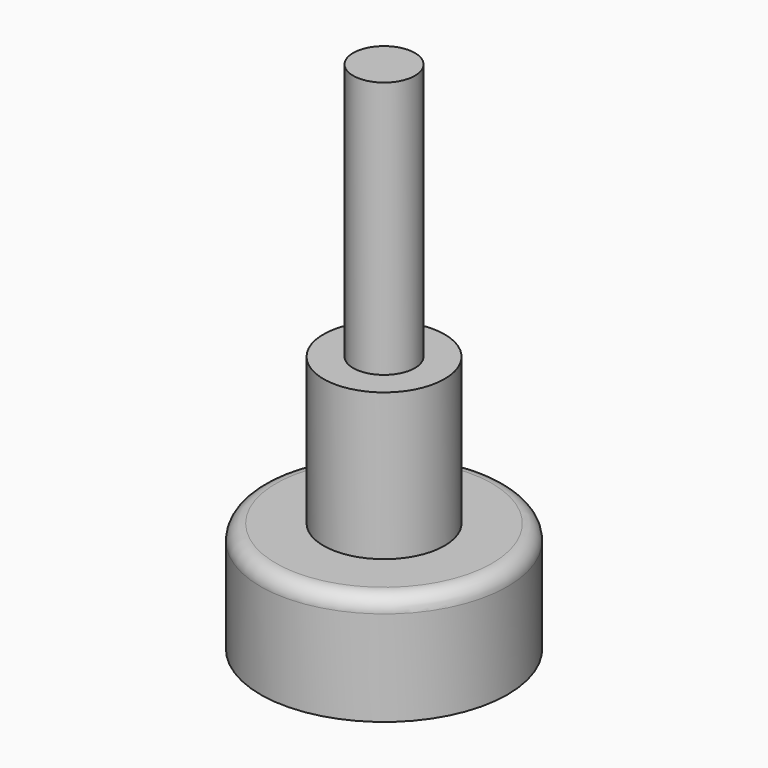
from build123d import *

# Parameters (mm, degrees)
F0_R     = 1.5
F1_DEPTH = 25
F0_R_2   = 2.94
F2_DEPTH = 12.5
F0_R_3   = 6
F3_DEPTH = 5.37
F4_R     = 0.75


with BuildPart() as f1:
    # F0 (on Top) → F1 (new body)
    with BuildSketch(Plane.XY):
        Circle(F0_R)
    extrude(amount=F1_DEPTH)

    # F0 (on Top) → F2 (join)
    with BuildSketch(Plane.XY):
        Circle(F0_R_2)
        Circle(F0_R, mode=Mode.SUBTRACT)
    extrude(amount=F2_DEPTH)

    # F0 (on Top) → F3 (join)
    with BuildSketch(Plane.XY):
        Circle(F0_R_3)
        Circle(F0_R_2, mode=Mode.SUBTRACT)
    extrude(amount=F3_DEPTH)

    # F4
    f4_edges = [f1.edges().sort_by_distance(p)[0] for p in [
        (-6, 0, 5.37),
    ]]
    fillet(f4_edges, radius=F4_R)


solid = f1.part
